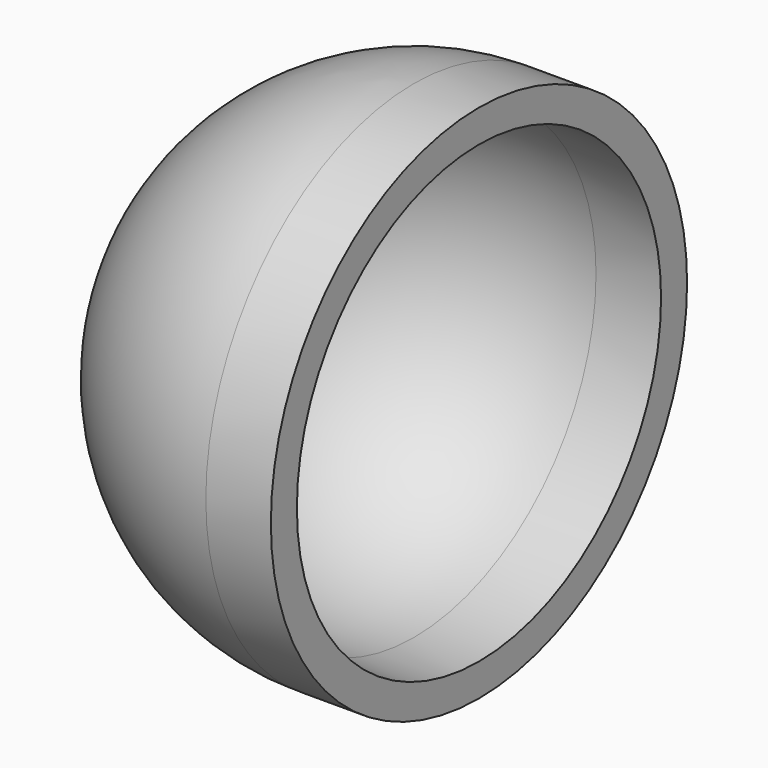
from build123d import *

# Parameters (mm, degrees)
F2_T = -6.35


with BuildPart() as f1:
    # F0 (on Front) → F1 (revolve)
    with BuildSketch(Plane.XZ):
        with BuildLine():
            Line((-71.7399741378, 46.816408298), (-71.7399741378, 97.616408298))
            Line((-71.7399741378, 97.616408298), (-84.4399741378, 97.616408298))
            ThreePointArc((-84.4399741378, 97.616408298), (-120.3609986221, 82.7374327823), (-135.2399741378, 46.816408298))
            Line((-135.2399741378, 46.816408298), (-71.7399741378, 46.816408298))
        make_face()
    revolve(axis=Axis((-103.4899741378, 0, 46.816408298), (1, 0, 0)))

    # F2
    f2_openings = [f1.faces().sort_by_distance(p)[0] for p in [
        (-71.739974, 0, 46.816408),
    ]]
    offset(amount=F2_T, openings=f2_openings)


solid = f1.part
